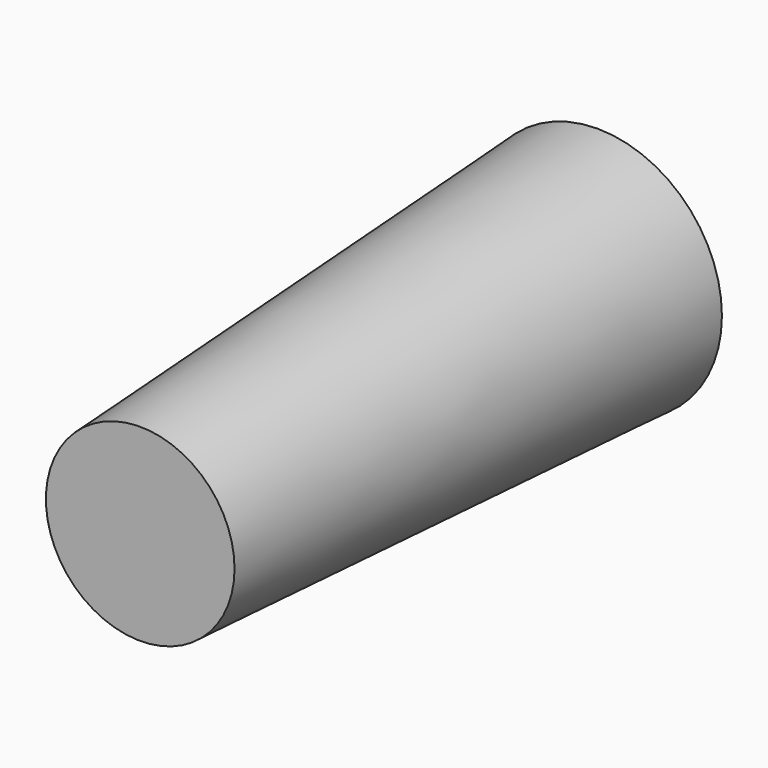
from build123d import *

# Parameters (mm, degrees)
F0_R     = 36.7197671768
F1_DEPTH = 168.93646
F1_TAPER = 3
F2_T     = -2.5


with BuildPart() as f1:
    # F0 (on Front) → F1 (new body)
    with BuildSketch(Plane.XZ):
        Circle(F0_R)
    extrude(amount=F1_DEPTH, taper=F1_TAPER)

    # F2
    f2_openings = [f1.faces().sort_by_distance(p)[0] for p in [
        (0, 0, 0),
    ]]
    offset(amount=F2_T, openings=f2_openings, kind=Kind.INTERSECTION)


solid = f1.part
